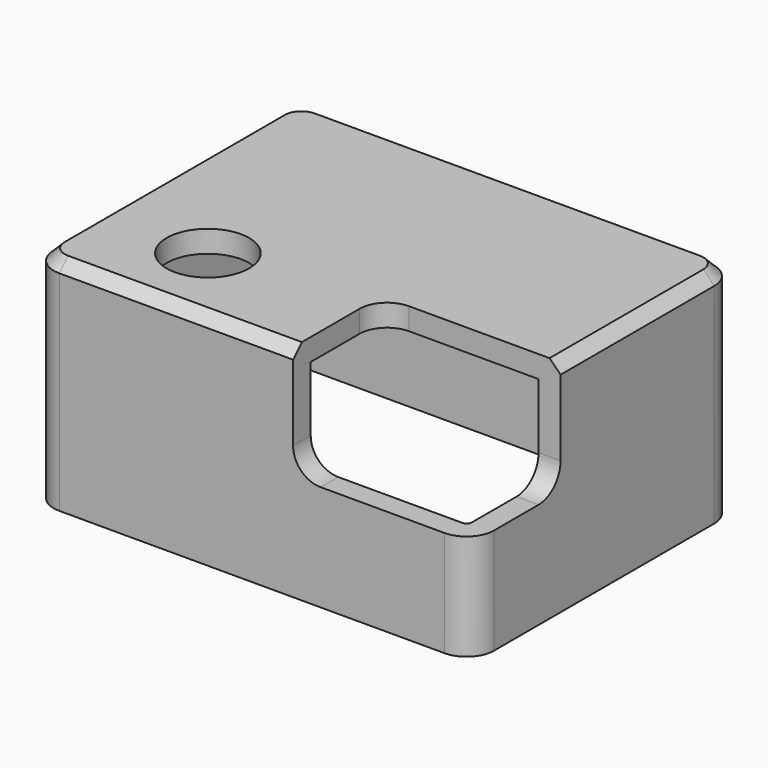
from build123d import *

# Parameters (mm, degrees)
F0_W     = 80
F0_H     = 60
F1_DEPTH = 40
F2_R     = 5
F3_SIZE  = 2
F4_T     = -4
F5_R     = 7.5
F6_DEPTH = 40.001
F7_W     = 47.272053
F7_H     = 29.239059
F8_DEPTH = 20.1
F9_R     = 5


with BuildPart() as f1:
    # F0 (on Top) → F1 (new body)
    with BuildSketch(Plane.XY):
        with Locations((40, 30)):
            Rectangle(F0_W, F0_H)
    extrude(amount=F1_DEPTH)

    # F2
    f2_edges = [f1.edges().sort_by_distance(p)[0] for p in [
        (80, 60, 20),
        (80, 0, 20),
        (0, 0, 20),
        (0, 60, 20),
    ]]
    fillet(f2_edges, radius=F2_R)

    # F3
    f3_edges = [f1.edges().sort_by_distance(p)[0] for p in [
        (40, 0, 40),
    ]]
    chamfer(f3_edges, length=F3_SIZE)

    # F4
    f4_openings = [f1.faces().sort_by_distance(p)[0] for p in [
        (40, 30, 0),
    ]]
    offset(amount=F4_T, openings=f4_openings)

    # F5 (on face) → F6 (cut, through all)
    with BuildSketch(Plane.XY.offset(40)):
        with Locations((20, 15)):
            Circle(F5_R)
    extrude(amount=-F6_DEPTH, mode=Mode.SUBTRACT)

    # F7 (on face) → F8 (cut)
    with BuildSketch(Plane.XZ):
        with Locations((71.118602, 33.85017)):
            Rectangle(F7_W, F7_H)
    extrude(amount=-F8_DEPTH, mode=Mode.SUBTRACT)

    # F9
    f9_edges = [f1.edges().sort_by_distance(p)[0] for p in [
        (47.482576, 2, 19.230641),
        (47.482576, 20.1, 38),
        (78, 20.1, 19.230641),
    ]]
    fillet(f9_edges, radius=F9_R)


solid = f1.part
